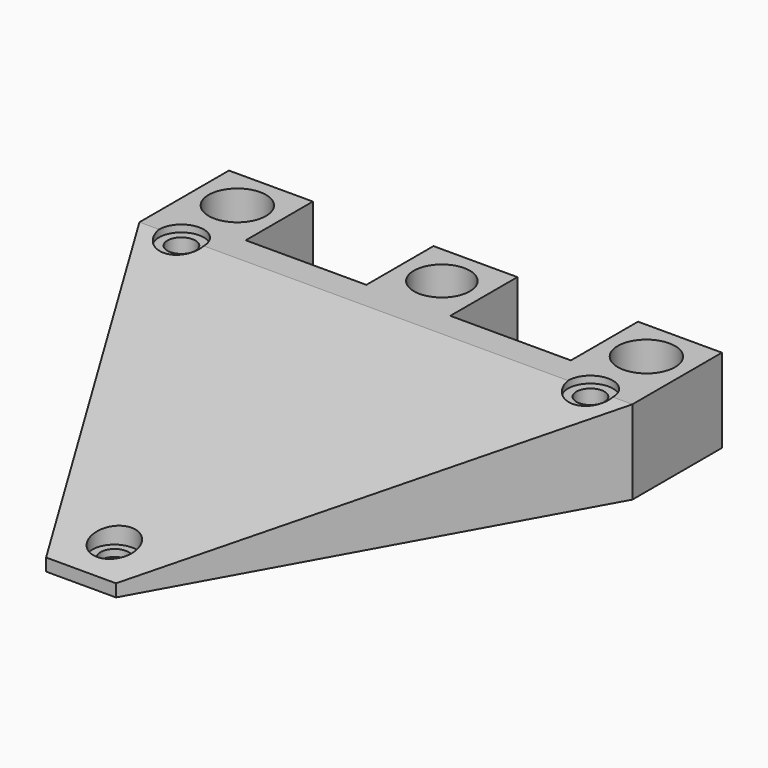
from build123d import *

# Parameters (mm, degrees)
SKETCH004_R       = 3.1
PAD001_DEPTH      = 1
PAD001_DEPTH_BACK = 4
SKETCH_R          = 4.1
SKETCH_R_2        = 4
SKETCH_R_3        = 2
PAD_DEPTH         = 12
POCKET_DEPTH      = 70.501
SKETCH002_R       = 3.2
POCKET001_DEPTH   = 1


with BuildPart() as pad001:
    # Sketch004 → Pad001 (new body, two sides)
    with BuildSketch(Plane.XY.offset(5)) as pad001_sk:
        with Locations((0, -29.5)):
            Circle(SKETCH004_R)
    extrude(amount=PAD001_DEPTH)
    extrude(pad001_sk.sketch, amount=-PAD001_DEPTH_BACK)


with BuildPart() as cut:
    # Sketch → Pad (new body)
    with BuildSketch(Plane.XY):
        Polygon((-35.25, 35.05), (-35.25, 19.05), (-5, -35.45), (5, -35.45), (35.25, 19.05), (35.25, 35.05), (23.25, 35.05), (23.25, 23.05), (6, 23.05), (6, 35.05), (-6, 35.05), (-6, 23.05), (-23.25, 23.05), (-23.25, 35.05), align=None)
        with Locations((-29.25, 29.05)):
            Circle(SKETCH_R, mode=Mode.SUBTRACT)
        with Locations((0, 29.05)):
            Circle(SKETCH_R_2, mode=Mode.SUBTRACT)
        with Locations((29.25, 29.05)):
            Circle(SKETCH_R, mode=Mode.SUBTRACT)
        with Locations((-29.25, 19.05)):
            Circle(SKETCH_R_3, mode=Mode.SUBTRACT)
        with Locations((29.25, 19.05)):
            Circle(SKETCH_R_3, mode=Mode.SUBTRACT)
        with Locations((0, -29.45)):
            Circle(SKETCH_R_3, mode=Mode.SUBTRACT)
    extrude(amount=PAD_DEPTH)

    # Sketch001 → Pocket (cut, through all)
    with BuildSketch(Plane(origin=(-35.25, 0, 0), x_dir=(0, -1, 0), z_dir=(-1, 0, 0))):
        Polygon((-19.05, 12), (44.95, 0), (44.95, 12), align=None)
    extrude(amount=-POCKET_DEPTH, mode=Mode.SUBTRACT)

    # Sketch002 → Pocket001 (cut)
    with BuildSketch(Plane.XY.offset(12)):
        with Locations((-29.25, 19.05)):
            Circle(SKETCH002_R)
        with Locations((29.25, 19.05)):
            Circle(SKETCH002_R)
    extrude(amount=-POCKET001_DEPTH, mode=Mode.SUBTRACT)

    # Cut: cut Pad001
    add(pad001.part, mode=Mode.SUBTRACT)


solid = cut.part
